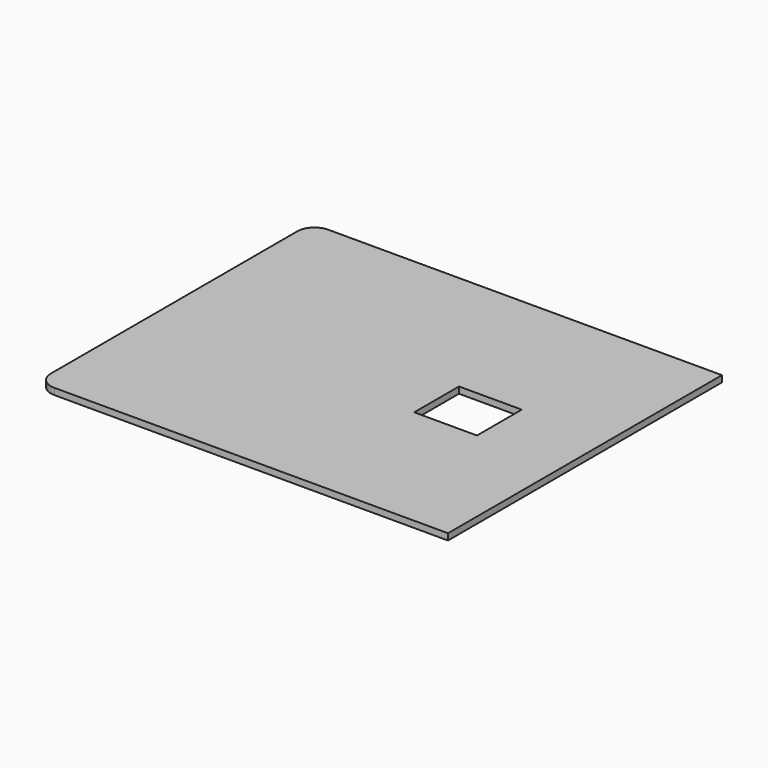
from build123d import *

# Parameters (mm, degrees)
F1_DEPTH = 28.575
F3_DEPTH = 28.575


with BuildPart() as f1:
    # F0 (on Top) → F1 (new body)
    with BuildSketch(Plane.XY):
        with BuildLine():
            Line((914.4, -762), (914.4, 762))
            Line((914.4, 762), (-838.2, 762))
            ThreePointArc((-838.2, 762), (-892.081537, 739.681537), (-914.4, 685.8))
            Line((-914.4, 685.8), (-914.4, -685.8))
            ThreePointArc((-914.4, -685.8), (-892.081537, -739.681537), (-838.2, -762))
            Line((-838.2, -762), (914.4, -762))
        make_face()
    extrude(amount=F1_DEPTH)

    # F2 (on face) → F3 (cut)
    with BuildSketch(Plane.XY.offset(28.575)):
        Polygon((533.4, -124.587), (533.4, 0), (533.4, 124.587), (254, 124.587), (254, -124.587), align=None)
    extrude(amount=-F3_DEPTH, mode=Mode.SUBTRACT)


solid = f1.part
